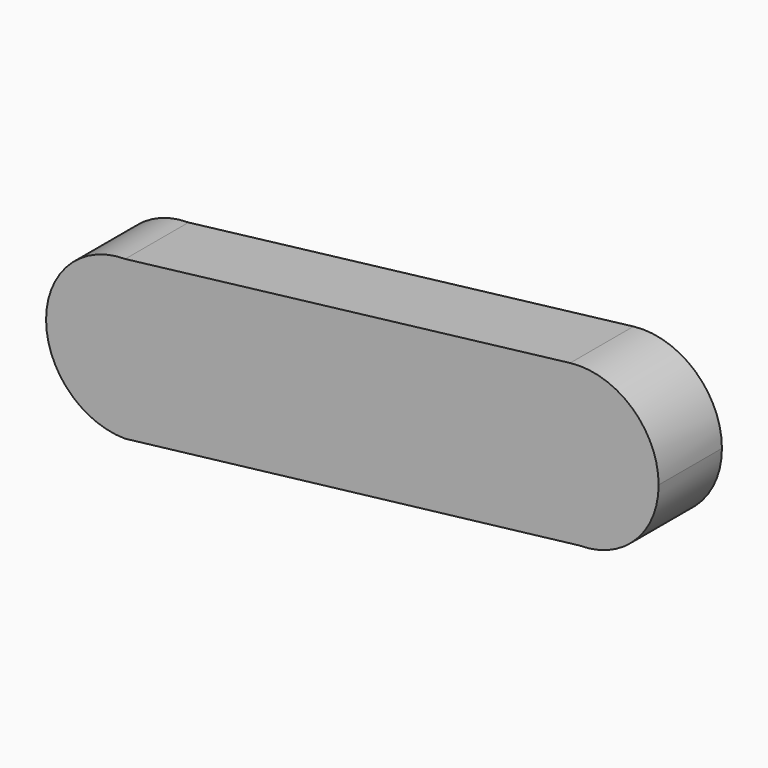
from build123d import *

# Parameters (mm, degrees)
F1_DEPTH = 12.7


with BuildPart() as f1:
    # F0 (on Front) → F1 (new body)
    with BuildSketch(Plane.XZ):
        with BuildLine():
            ThreePointArc((-45.404851, 57.838747), (-36.424595, 54.119003), (-32.704851, 45.138747))
            ThreePointArc((-32.704851, 45.138747), (-35.432845, 37.274327), (-42.444867, 32.788504))
            Line((-42.444867, 32.788504), (27.538968, 41.057928))
            ThreePointArc((27.538968, 41.057928), (14.86138, 53.003764), (26.033301, 66.368359))
            Line((26.033301, 66.368359), (-45.404851, 57.838747))
        make_face()
        with BuildLine():
            ThreePointArc((-42.444867, 32.788504), (-35.432845, 37.274327), (-32.704851, 45.138747))
            ThreePointArc((-32.704851, 45.138747), (-36.424595, 54.119003), (-45.404851, 57.838747))
            ThreePointArc((-45.404851, 57.838747), (-58.104851, 45.138747), (-45.404851, 32.438747))
            Line((-45.404851, 32.438747), (-42.444867, 32.788504))
        make_face()
        with BuildLine():
            ThreePointArc((40.238968, 53.757928), (35.970102, 63.255612), (26.033301, 66.368359))
            ThreePointArc((26.033301, 66.368359), (14.86138, 53.003764), (27.538968, 41.057928))
            ThreePointArc((27.538968, 41.057928), (36.519224, 44.777672), (40.238968, 53.757928))
        make_face()
    extrude(amount=F1_DEPTH)


solid = f1.part
